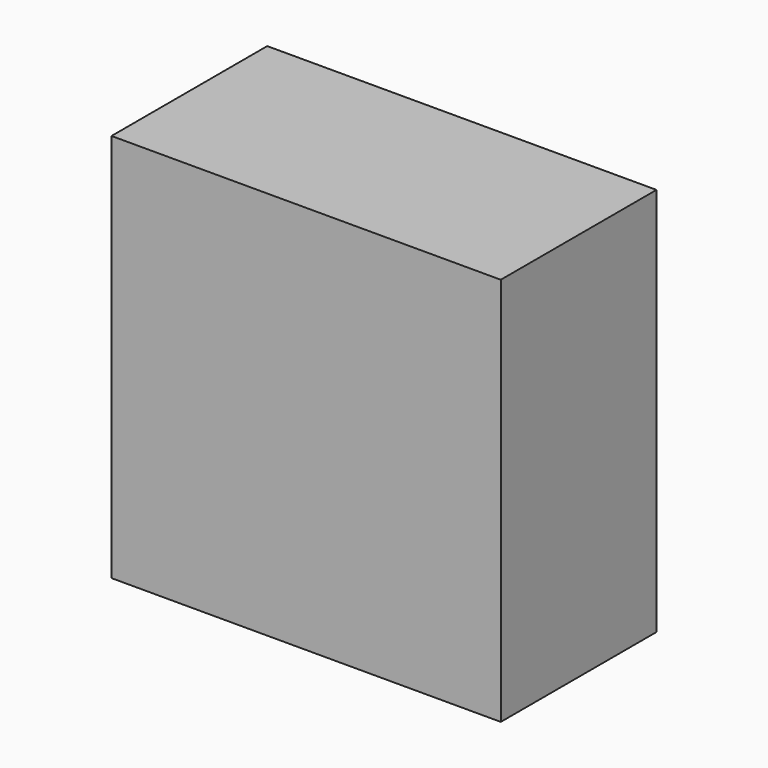
from build123d import *

# Parameters (mm, degrees)
F0_W     = 76.2
F0_H     = 76.2
F1_DEPTH = 38.1
F2_W     = 74.168
F2_H     = 74.168
F3_DEPTH = 36.068
F4_W     = 75.2094
F4_H     = 75.2094
F4_W_2   = 74.168
F4_H_2   = 74.168
F5_DEPTH = 7.62


with BuildPart() as f1:
    # F0 (on Front) → F1 (new body)
    with BuildSketch(Plane.XZ):
        Rectangle(F0_W, F0_H)
    extrude(amount=F1_DEPTH)

    # F2 (on face) → F3 (cut)
    with BuildSketch(Plane(origin=(0, 0, 0), x_dir=(-1, 0, 0), z_dir=(0, 1, 0))):
        Rectangle(F2_W, F2_H)
    extrude(amount=-F3_DEPTH, mode=Mode.SUBTRACT)

    # F4 (on face) → F5 (cut)
    with BuildSketch(Plane(origin=(0, 0, 0), x_dir=(-1, 0, 0), z_dir=(0, 1, 0))):
        Rectangle(F4_W, F4_H)
        Rectangle(F4_W_2, F4_H_2, mode=Mode.SUBTRACT)
    extrude(amount=-F5_DEPTH, mode=Mode.SUBTRACT)


solid = f1.part
